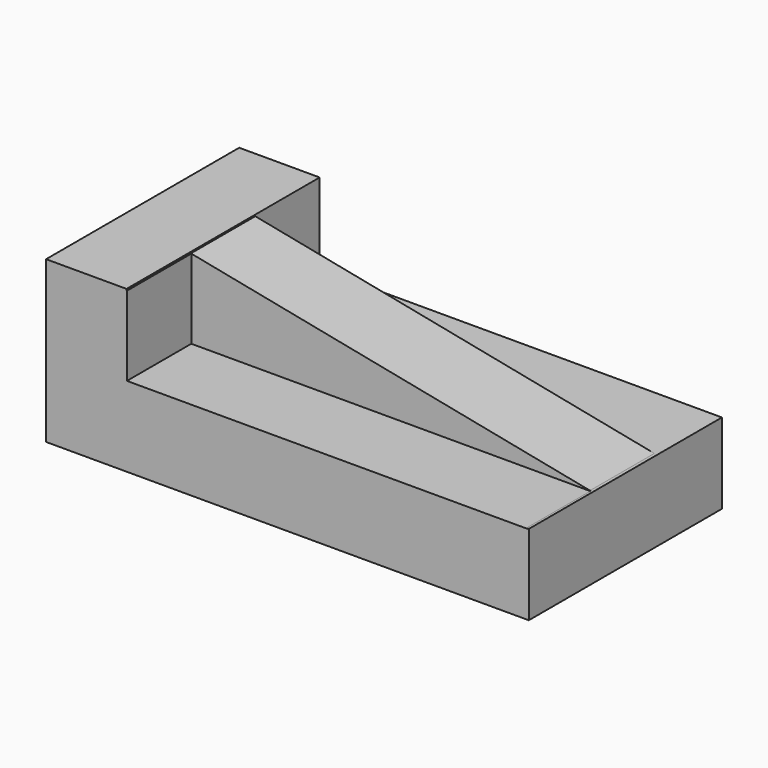
from build123d import *

# Parameters (mm, degrees)
F1_DEPTH = 76.2
F3_DEPTH = 50.8
F5_DEPTH = 25.4


with BuildPart() as f1:
    # F0 (on Front) → F1 (new body)
    with BuildSketch(Plane.XZ):
        Polygon((0, 50.8), (0, 0), (152.4, 0), (152.4, 25.4), (25.4, 25.4), (25.4, 50.8), align=None)
    extrude(amount=-F1_DEPTH)

    # F2 (on Front) → F3 (join)
    with BuildSketch(Plane.XZ):
        Polygon((25.018999, 50.418999), (25.018999, 25.273001), (152.018994, 25.273001), align=None)
    extrude(amount=-F3_DEPTH)

    # F4 (on Front) → F5 (cut)
    with BuildSketch(Plane.XZ):
        Polygon((152.272999, 25.273001), (25.527, 51.181), (25.527, 25.273001), (28.067, 25.273001), align=None)
    extrude(amount=-F5_DEPTH, mode=Mode.SUBTRACT)


solid = f1.part
